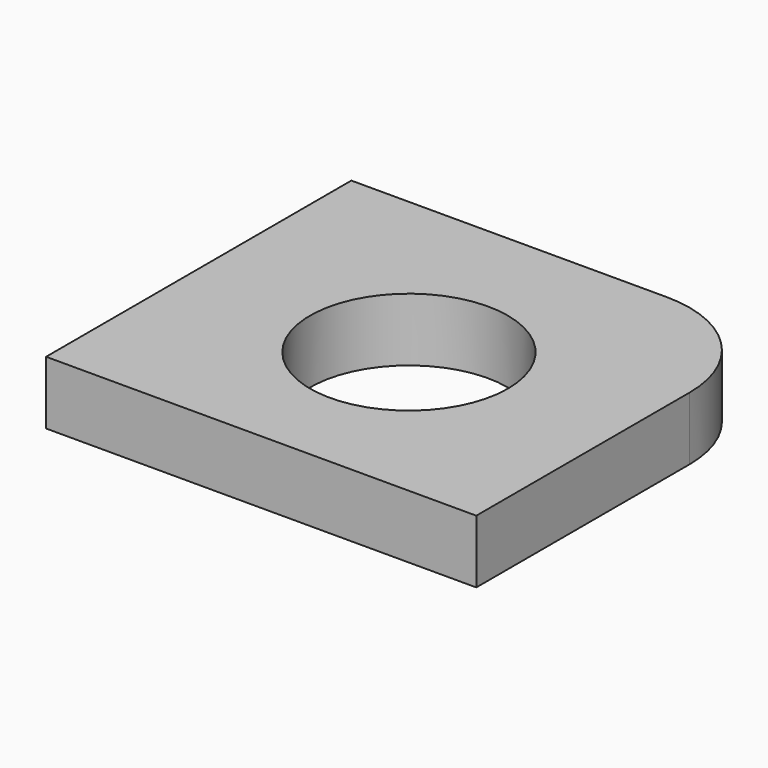
from build123d import *

# Parameters (mm, degrees)
F0_R     = 15.654191
F1_DEPTH = 10


with BuildPart() as f1:
    # F0 (on Top) → F1 (new body)
    with BuildSketch(Plane.XY):
        with BuildLine():
            Line((15.672464, 31.408556), (-34.24545, 31.408556))
            Line((-34.24545, 31.408556), (-34.24545, -28.976915))
            Line((-34.24545, -28.976915), (33.840183, -28.976915))
            Line((33.840183, -28.976915), (33.840183, 13.240837))
            ThreePointArc((33.840183, 13.240837), (28.518981, 26.087354), (15.672464, 31.408556))
        make_face()
        Circle(F0_R, mode=Mode.SUBTRACT)
    extrude(amount=F1_DEPTH)


solid = f1.part
